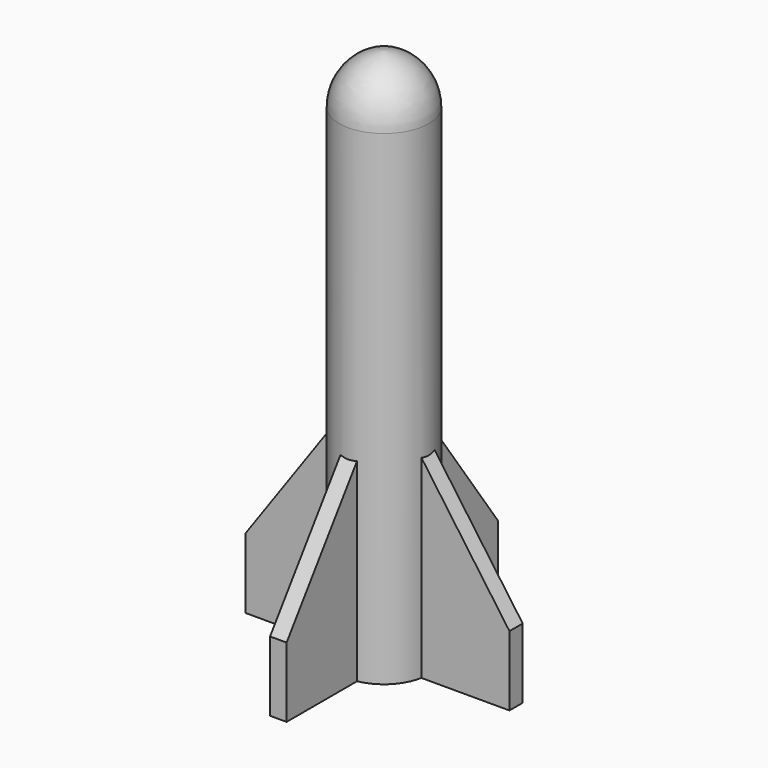
from build123d import *

# Parameters (mm, degrees)
F0_W     = 2.54
F0_H     = 127
F2_W     = 4.3332334608
F2_H     = 25.4
F3_DEPTH = 50.8
F5_DEPTH = 25.4
F6_COUNT = 4


with BuildPart() as f1:
    # F0 (on Right) → F1 (revolve)
    with BuildSketch(Plane.YZ):
        with Locations((-10.4634532329, 63.5)):
            Rectangle(F0_W, F0_H)
        with BuildLine():
            Line((0, 137.5253552338), (0, 140.0653552338))
            ThreePointArc((0, 140.0653552338), (-8.369527592, 135.7803392895), (-11.7334532329, 127))
            Line((-11.7334532329, 127), (-9.1934532329, 127))
            ThreePointArc((-9.1934532329, 127), (-6.5714749225, 133.987536854), (0, 137.5253552338))
        make_face()
    revolve(axis=Axis((0, 0, 68.7626776169), (0, 0, -1)))

    # F2 (on Top) → F3 (join)
    with BuildSketch(Plane.XY):
        with Locations((0, -21.8934532329)):
            Rectangle(F2_W, F2_H)
    extrude(amount=F3_DEPTH)

    # F4 (on face) → F5 (cut)
    with BuildSketch(Plane.YZ.offset(2.1666167304)):
        Polygon((-34.5934532329, 18.2981900871), (-11.5316823019, 50.8), (-34.5934532329, 50.8), align=None)
    extrude(amount=-F5_DEPTH, mode=Mode.SUBTRACT)

    # F6: F1 ×4 about axis
    f6_axis = Axis((0, 0, 0), (0, 0, -1))


with BuildPart() as f1_1:
    add(f1.part)
    for i in range(1, F6_COUNT):
        add(f1.part.rotate(f6_axis, i * 360 / F6_COUNT))


solid = f1_1.part
